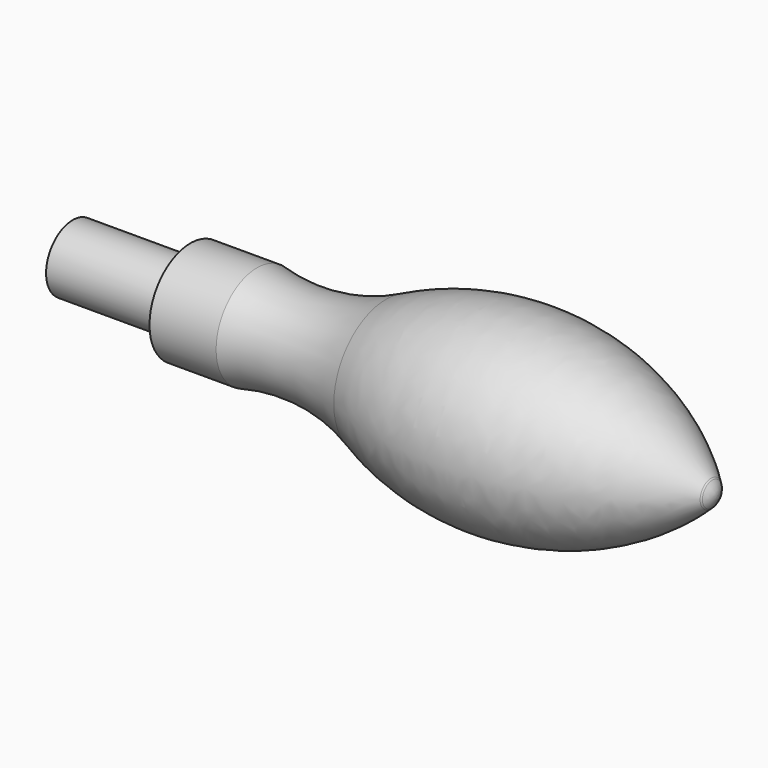
from build123d import *

# Parameters (mm, degrees)
F0_W = 23
F0_H = 6.5


with BuildPart() as f1:
    # F0 (on Top) → F1 (revolve)
    with BuildSketch(Plane.XY):
        with BuildLine():
            ThreePointArc((39.227544, -2.37903), (39.918853, -1.277694), (40.160403, 0))
            Line((40.160403, 0), (-62.651278, 0))
            Line((-62.651278, 0), (-62.651278, -6.5))
            Line((-62.651278, -6.5), (-62.651278, -10))
            Line((-62.651278, -10), (-49.651278, -10))
            ThreePointArc((-49.651278, -10), (-36.796792, -9.234882), (-24.424854, -12.806772))
            ThreePointArc((-24.424854, -12.806772), (8.879095, -17.705654), (38.9747, -2.625648))
            ThreePointArc((38.9747, -2.625648), (39.101317, -2.502538), (39.227544, -2.37903))
        make_face()
        with Locations((-74.151278, -3.25)):
            Rectangle(F0_W, F0_H)
    revolve(axis=Axis((-25.326952, 0, 0), (-1, 0, 0)))


solid = f1.part
